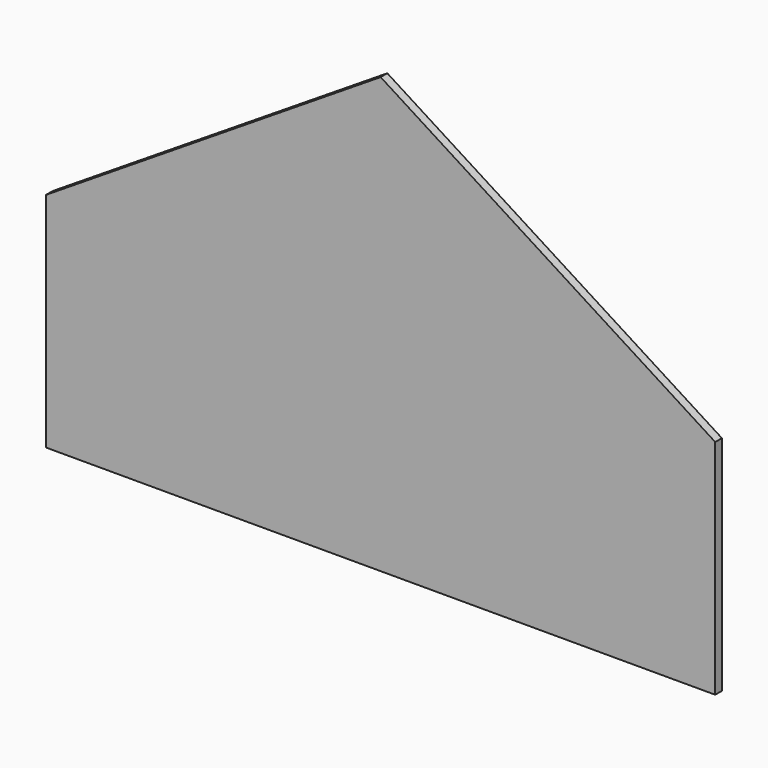
from build123d import *

# Parameters (mm, degrees)
PAD_DEPTH = 5


with BuildPart() as part:
    # Sketch → Pad (new body)
    with BuildSketch(Plane(origin=(0, 0, 0), x_dir=(-1, 0, 0), z_dir=(0, 1, 0))):
        Polygon((200, 0), (200, 133), (0, 260), (-200, 133), (-200, 0), align=None)
    extrude(amount=PAD_DEPTH)


solid = part.part
